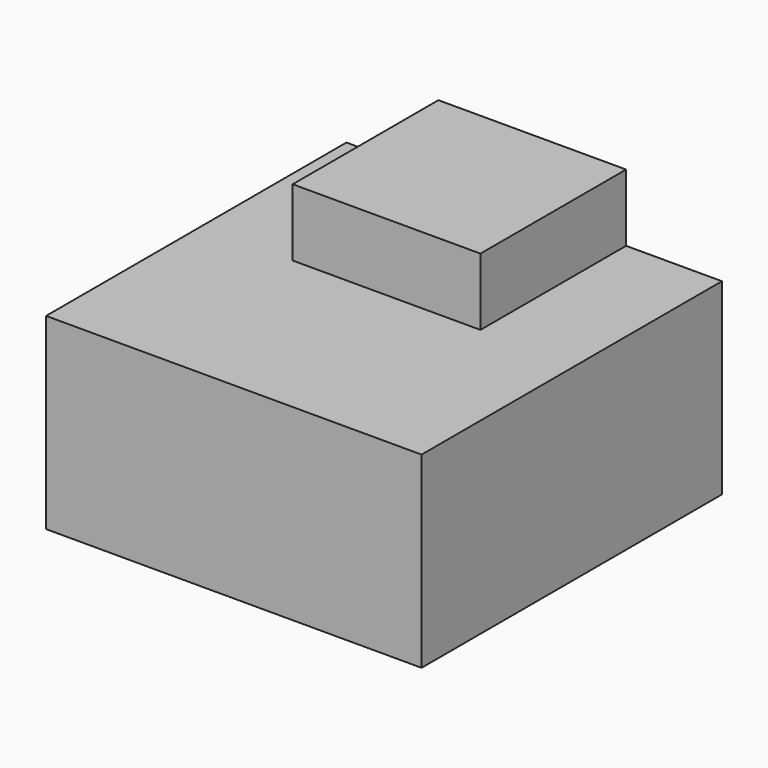
from build123d import *

# Parameters (mm, degrees)
F0_W     = 25.4
F0_H     = 25.4
F1_DEPTH = 24.638
F2_W     = 50.8
F2_H     = 50.8
F3_DEPTH = 25.4


with BuildPart() as f1:
    # F0 (on Front) → F1 (new body)
    with BuildSketch(Plane.XZ):
        with Locations((-43.39072, 21.789327)):
            Rectangle(F0_W, F0_H)
    extrude(amount=F1_DEPTH)

    # F2 (on Top) → F3 (join)
    with BuildSketch(Plane.XY):
        with Locations((-43.128742, -25.4)):
            Rectangle(F2_W, F2_H)
    extrude(amount=F3_DEPTH)


solid = f1.part
